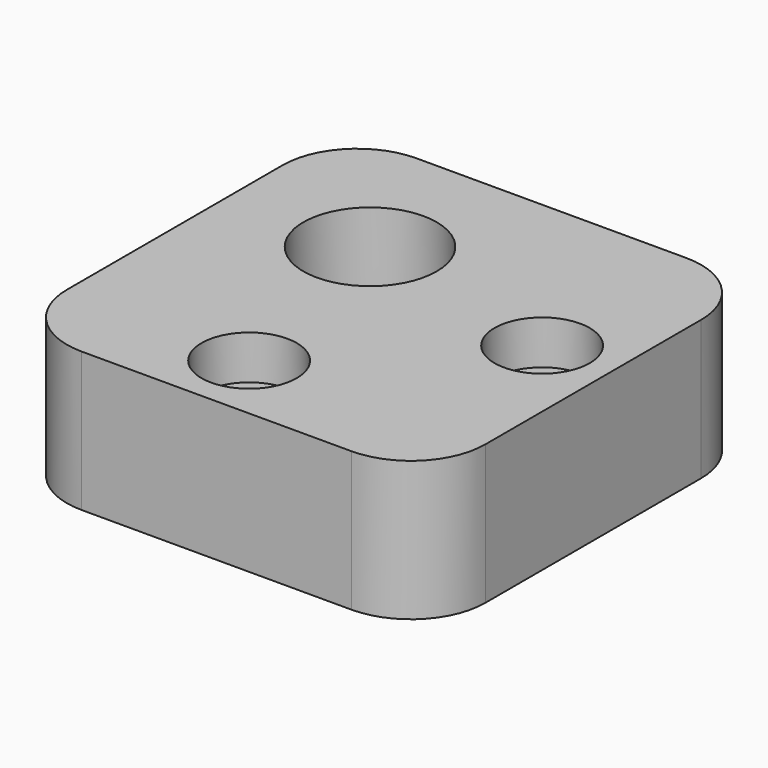
from build123d import *

# Parameters (mm, degrees)
F0_W           = 28.575
F0_H           = 28.575
F1_DEPTH       = 9.525
F3_D           = 3.3
F3_CBORE_D     = 6.5
F3_CBORE_DEPTH = 3
F4_R           = 4.55
F5_DEPTH       = 5
F6_R           = 1.7526
F7_DEPTH       = 4.526
F8_R           = 5.08


with BuildPart() as f1:
    # F0 (on Top) → F1 (new body)
    with BuildSketch(Plane.XY):
        with Locations((-14.2875, 14.2875)):
            Rectangle(F0_W, F0_H)
    extrude(amount=F1_DEPTH)

    # F3 (through all)
    with Locations(Plane.XY.offset(9.525)):
        with Locations((-15.875, 4.7625), (-4.7625, 15.875)):
            CounterBoreHole(F3_D / 2, F3_CBORE_D / 2, F3_CBORE_DEPTH)

    # F4 (on face) → F5 (cut)
    with BuildSketch(Plane.XY.offset(9.525)):
        with Locations((-19.05, 19.05)):
            Circle(F4_R)
    extrude(amount=-F5_DEPTH, mode=Mode.SUBTRACT)

    # F6 (on face) → F7 (cut, through all)
    with BuildSketch(Plane.XY.offset(4.525)):
        with Locations((-19.05, 19.05)):
            Circle(F6_R)
    extrude(amount=-F7_DEPTH, mode=Mode.SUBTRACT)

    # F8
    f8_edges = [f1.edges().sort_by_distance(p)[0] for p in [
        (0, 0, 4.7625),
        (-28.575, 0, 4.7625),
        (-28.575, 28.575, 4.7625),
        (0, 28.575, 4.7625),
    ]]
    fillet(f8_edges, radius=F8_R)


solid = f1.part
